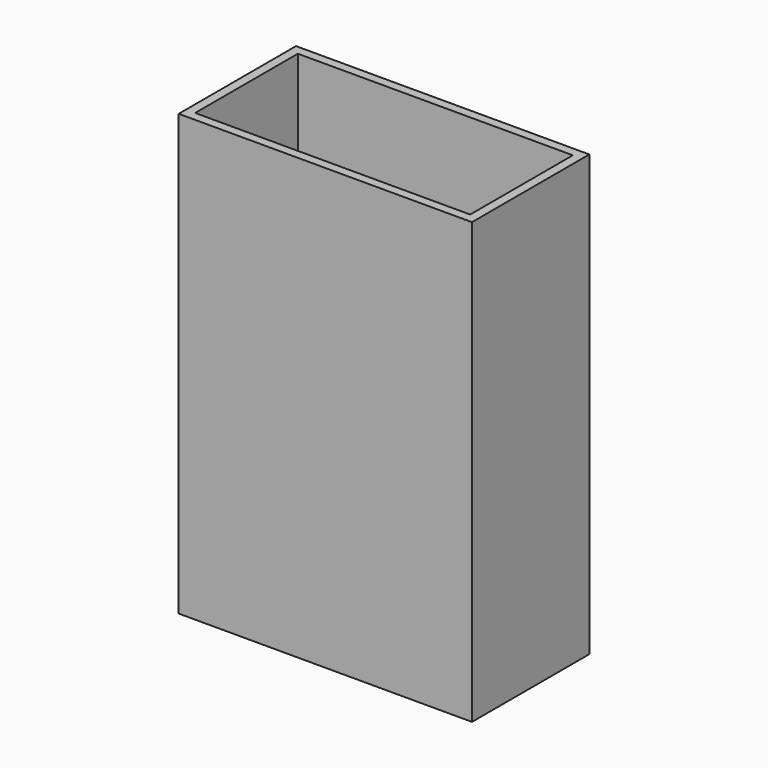
from build123d import *

# Parameters (mm, degrees)
F0_W     = 203.2
F0_H     = 101.6
F0_W_2   = 190.5
F0_H_2   = 88.9
F1_DEPTH = 304.8
F0_R     = 40
F2_DEPTH = 200


with BuildPart() as f1:
    # F0 (on Top) → F1 (new body)
    with BuildSketch(Plane.XY):
        Rectangle(F0_W, F0_H)
        Rectangle(F0_W_2, F0_H_2, mode=Mode.SUBTRACT)
    extrude(amount=F1_DEPTH)


with BuildPart() as f2:
    # F0 (on Top) → F2 (new body)
    with BuildSketch(Plane.XY):
        Circle(F0_R)
    extrude(amount=F2_DEPTH)


solid = Compound([f1.part, f2.part])
